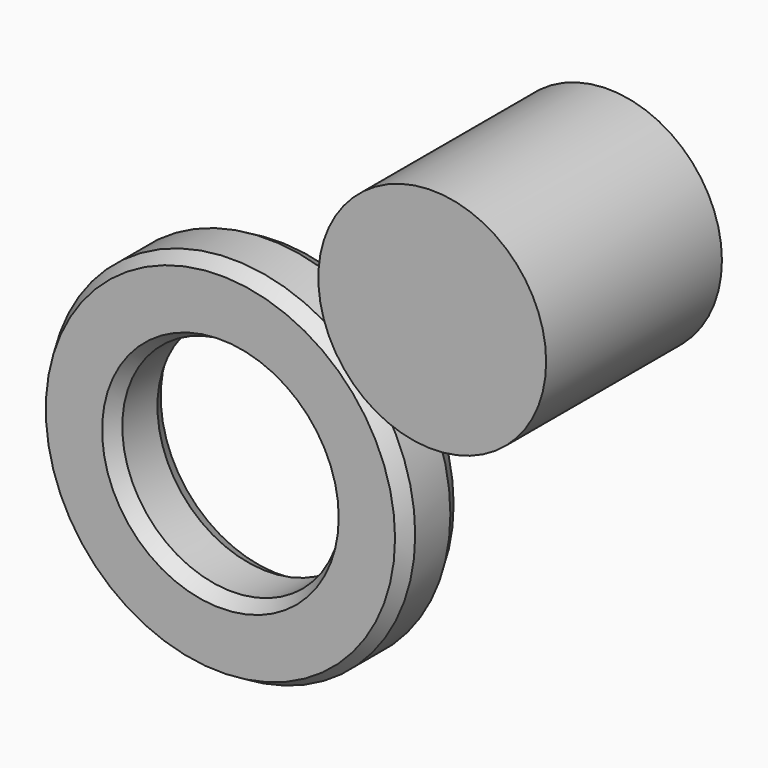
from build123d import *

# Parameters (mm, degrees)
F0_R     = 25
F0_R_2   = 15
F1_DEPTH = 10
F2_SIZE2 = 1.154701
F2_SIZE  = 2
F3_R     = 15.551975
F4_DEPTH = 30


with BuildPart() as f1:
    # F0 (on Front) → F1 (new body)
    with BuildSketch(Plane.XZ):
        Circle(F0_R)
        Circle(F0_R_2, mode=Mode.SUBTRACT)
    extrude(amount=F1_DEPTH)

    # F2
    f2_edges = [f1.edges().sort_by_distance(p)[0] for p in [
        (-25, 0, 0),
        (-15, 0, 0),
        (-25, -10, 0),
        (-15, -10, 0),
    ]]
    chamfer(f2_edges, length=F2_SIZE, length2=F2_SIZE2)


with BuildPart() as f4:
    # F3 (on Front) → F4 (new body)
    with BuildSketch(Plane.XZ):
        with Locations((44.921815, 41.246399)):
            Circle(F3_R)
    extrude(amount=F4_DEPTH)


solid = Compound([f1.part, f4.part])
